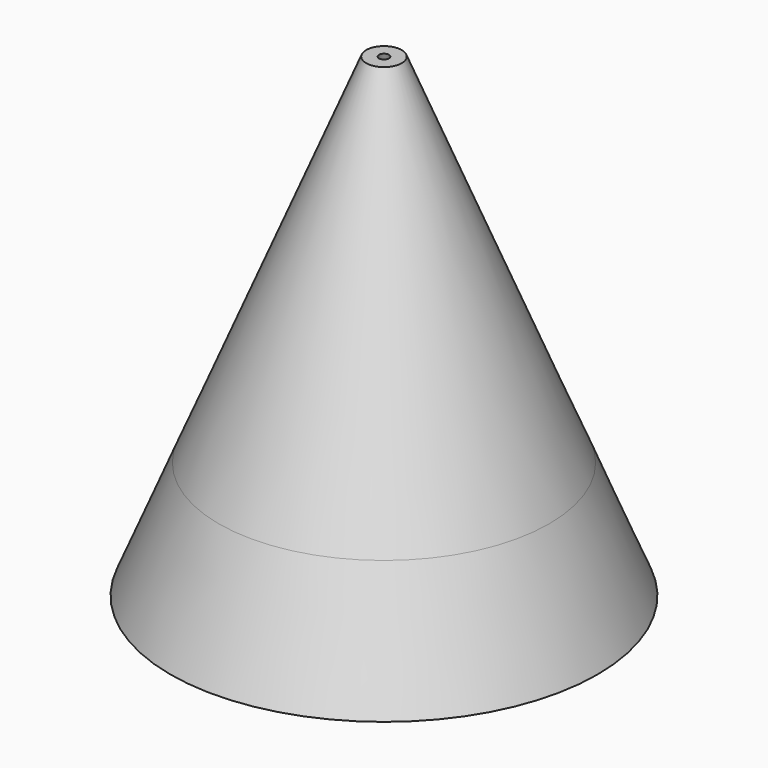
from build123d import *


with BuildPart() as f1:
    # F0 (on Front) → F1 (revolve)
    with BuildSketch(Plane.XZ):
        Polygon((12.8504516519, 9.8613593727), (16.9182623932, 0), (18, 0), (13.9321892587, 9.8613593727), align=None)
        Polygon((1.5, 40), (1.5, 37.3776058017), (12.8504516519, 9.8613593727), (13.9321892587, 9.8613593727), align=None)
        Polygon((0.4182623932, 40), (1.5, 37.3776058017), (1.5, 40), align=None)
    revolve(axis=Axis((0, 0, 20), (0, 0, 1)))


solid = f1.part
